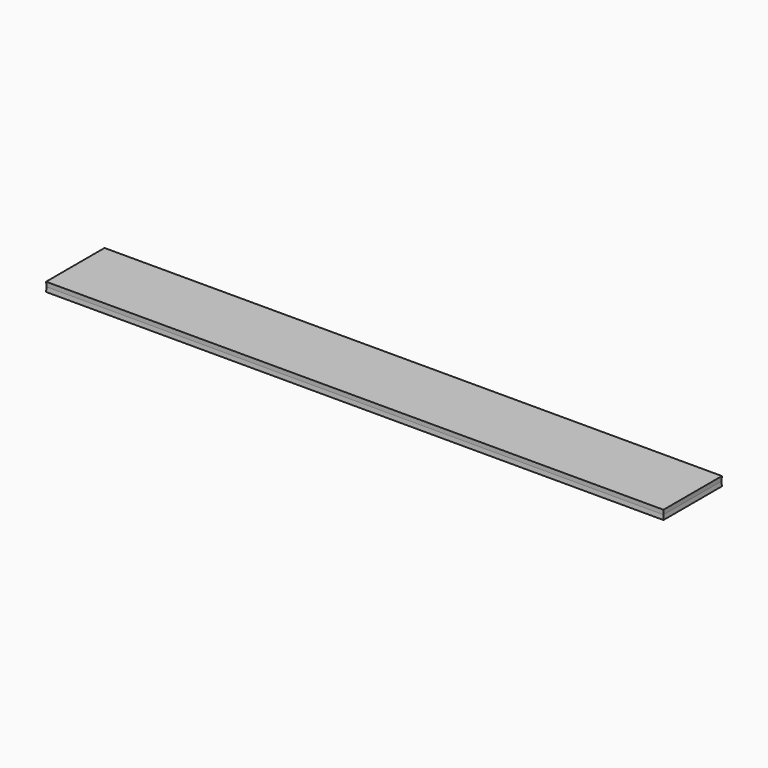
from build123d import *

# Parameters (mm, degrees)
F0_W     = 863.6
F0_H     = 101.6
F1_DEPTH = 6.35
F1_TAPER = -3


with BuildPart() as f1:
    # F0 (on Top) → F1 (new body, symmetric)
    with BuildSketch(Plane.XY):
        with Locations((59.7943292466, 72.5005418062)):
            Rectangle(F0_W, F0_H)
    extrude(amount=F1_DEPTH, both=True, taper=F1_TAPER)


solid = f1.part
